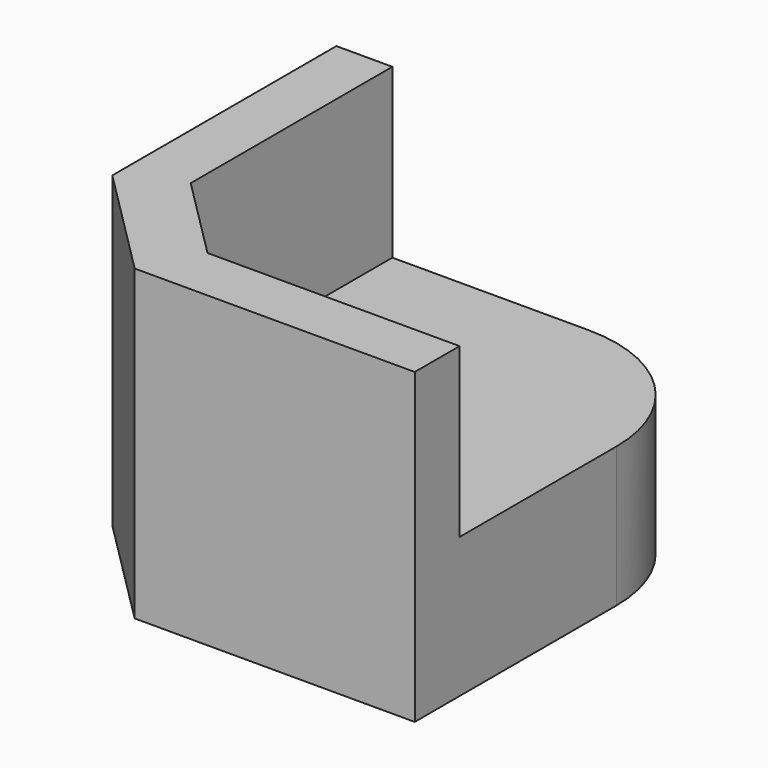
from build123d import *

# Parameters (mm, degrees)
F0_W     = 12
F0_H     = 12
F0_R     = 1.5
F0_H_2   = 2
F1_DEPTH = 5
F2_W     = 2
F2_H     = 12
F2_W_2   = 12
F2_H_2   = 2
F3_DEPTH = 6
F4_R     = 2.75
F5_DEPTH = 3.5
F6_SIZE  = 3
F7_SIZE  = 4
F8_R     = 5


with BuildPart() as f1:
    # F0 (on Top) → F1 (new body)
    with BuildSketch(Plane.XY):
        Rectangle(F0_W, F0_H)
        with Locations((-0.5, -0.5)):
            Circle(F0_R, mode=Mode.SUBTRACT)
        Rectangle(F0_W, F0_H)
        with Locations((-0.5, -0.5)):
            Circle(F0_R, mode=Mode.SUBTRACT)
        with Locations((0, -7)):
            Rectangle(F0_W, F0_H_2)
        Polygon((-6, -8), (-6, -6), (-6, 6), (-8, 6), (-8, -8), align=None)
    extrude(amount=F1_DEPTH)

    # F2 (on face) → F3 (join)
    with BuildSketch(Plane.XY.offset(5)):
        with Locations((-7, 0)):
            Rectangle(F2_W, F2_H)
        with Locations((0, -7)):
            Rectangle(F2_W_2, F2_H_2)
        with Locations((-7, -7)):
            Rectangle(F2_W, F2_H_2)
    extrude(amount=F3_DEPTH)

    # F4 (on face) → F5 (cut)
    with BuildSketch(Plane(origin=(0, 0, 0), x_dir=(1, 0, 0), z_dir=(0, 0, -1))):
        with Locations((-0.5, 0.5)):
            Circle(F4_R)
    extrude(amount=-F5_DEPTH, mode=Mode.SUBTRACT)

    # F6
    f6_edges = [f1.edges().sort_by_distance(p)[0] for p in [
        (-6, -6, 8),
    ]]
    chamfer(f6_edges, length=F6_SIZE)

    # F7
    f7_edges = [f1.edges().sort_by_distance(p)[0] for p in [
        (-8, -8, 5.5),
    ]]
    chamfer(f7_edges, length=F7_SIZE)

    # F8
    f8_edges = [f1.edges().sort_by_distance(p)[0] for p in [
        (6, 6, 2.5),
    ]]
    fillet(f8_edges, radius=F8_R)


solid = f1.part
